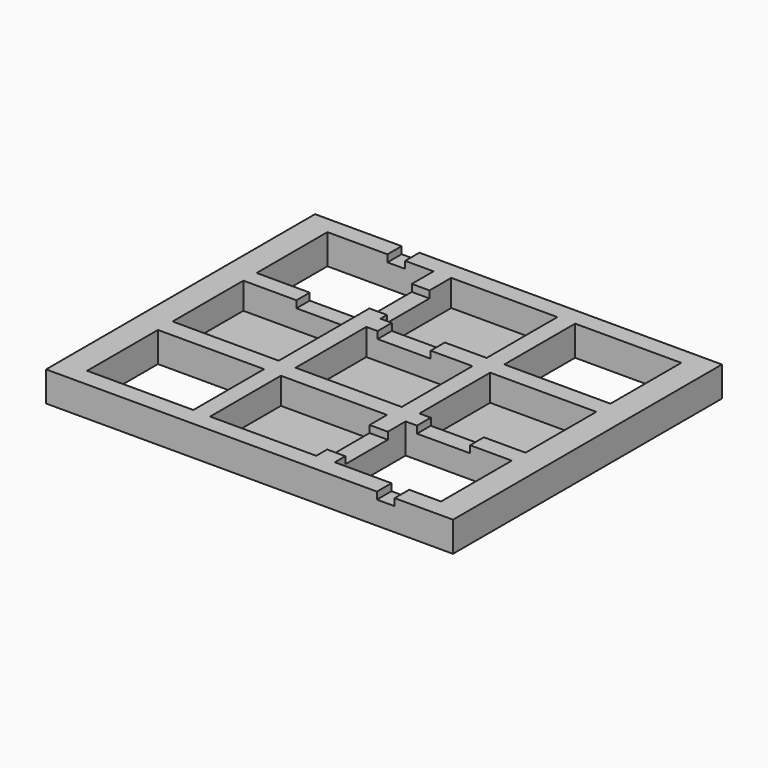
from build123d import *

# Parameters (mm, degrees)
F0_W     = 292.1
F0_H     = 241.3
F0_W_2   = 76.2
F0_H_2   = 63.5
F1_DEPTH = 21.59
F2_DEPTH = 2.54
F3_W     = 38.1
F3_H     = 11.9225998908
F3_W_2   = 12.7
F3_H_2   = 38.1
F3_H_3   = 12.7
F3_H_4   = 13.060019505
F3_H_5   = 12.339980495
F3_W_3   = 13.0705659449
F4_DEPTH = 5.08


with BuildPart() as f1:
    # F0 (on Top) → F1 (new body)
    with BuildSketch(Plane.XY):
        with Locations((-4.8260282278, 1.4313216329)):
            Rectangle(F0_W, F0_H)
        with Locations((-93.7260282278, -74.4086588621)):
            Rectangle(F0_W_2, F0_H_2, mode=Mode.SUBTRACT)
        with Locations((-5.1965941727, -74.7686783671)):
            Rectangle(F0_W_2, F0_H_2, mode=Mode.SUBTRACT)
        with Locations((84.0739717722, -74.4086588621)):
            Rectangle(F0_W_2, F0_H_2, mode=Mode.SUBTRACT)
        Polygon((-42.9260282278, -30.3186783671), (-42.9260282278, 9.6084550023), (-42.9260282278, 33.1813216329), (33.2739717722, 33.1813216329), (33.2739717722, -30.3186783671), align=None, mode=Mode.SUBTRACT)
        with Locations((84.0739717722, 1.4313216329)):
            Rectangle(F0_W_2, F0_H_2, mode=Mode.SUBTRACT)
        Polygon((-131.8260282278, 33.958721742), (-55.6260282278, 33.958721742), (-55.6260282278, 9.6084550023), (-55.6260282278, -29.541278258), (-131.8260282278, -29.541278258), align=None, mode=Mode.SUBTRACT)
        with Locations((-93.7260282278, 77.6313216329)):
            Rectangle(F0_W_2, F0_H_2, mode=Mode.SUBTRACT)
        with Locations((-4.8260282278, 77.6313216329)):
            Rectangle(F0_W_2, F0_H_2, mode=Mode.SUBTRACT)
        with Locations((84.0739714861, 77.6313216329)):
            Rectangle(F0_W_2, F0_H_2, mode=Mode.SUBTRACT)
    extrude(amount=F1_DEPTH)

    # F0 (on Top) → F2 (join)
    with BuildSketch(Plane.XY):
        with Locations((-4.8260282278, 77.6313216329)):
            Rectangle(F0_W_2, F0_H_2)
        Polygon((-42.9260282278, 33.1813216329), (-42.9260282278, 9.6084550023), (-42.9260282278, -30.3186783671), (33.2739717722, -30.3186783671), (33.2739717722, 33.1813216329), align=None)
        with Locations((-5.1965941727, -74.7686783671)):
            Rectangle(F0_W_2, F0_H_2)
        Polygon((-55.6260282278, 9.6084550023), (-55.6260282278, 33.958721742), (-131.8260282278, 33.958721742), (-131.8260282278, -29.541278258), (-55.6260282278, -29.541278258), align=None)
        with Locations((84.0739717722, 1.4313216329)):
            Rectangle(F0_W_2, F0_H_2)
    extrude(amount=F2_DEPTH)

    # F3 (on face) → F4 (cut)
    with BuildSketch(Plane.XY.offset(21.59)):
        with Locations((-74.6390915036, 39.9200216874)):
            Rectangle(F3_W, F3_H)
        with Locations((-49.2760282278, 70.8251611769)):
            Rectangle(F3_W_2, F3_H_2)
        with Locations((-15.7696923733, 39.5313216329)):
            Rectangle(F3_W, F3_H_3)
        with Locations((-82.3410557747, 115.7313216329)):
            Rectangle(F3_W_2, F3_H_3)
        with Locations((92.96223948, -112.6886686146)):
            Rectangle(F3_W_2, F3_H_4)
        with Locations((73.1869616985, -36.4886686146)):
            Rectangle(F3_W, F3_H_5)
        with Locations((39.4386887997, -77.696109426)):
            Rectangle(F3_W_3, F3_H_2)
    extrude(amount=-F4_DEPTH, mode=Mode.SUBTRACT)


solid = f1.part
